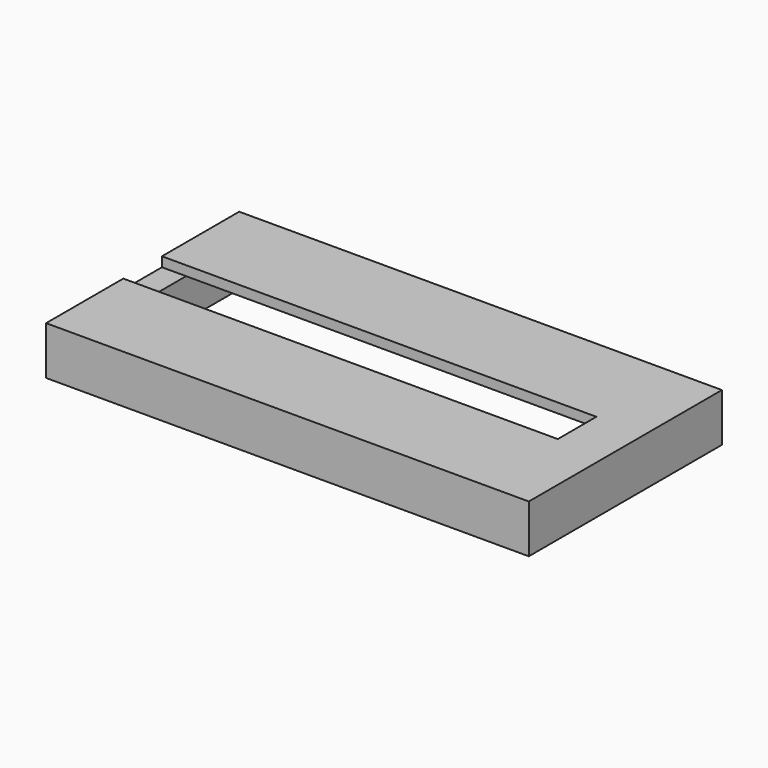
from build123d import *

# Parameters (mm, degrees)
F0_W     = 508
F0_H     = 254
F1_DEPTH = 50.8
F2_W     = 457.2
F2_H     = 203.2
F3_DEPTH = 40.64
F4_W     = 457.2
F4_H     = 50.8
F5_DEPTH = 10.16


with BuildPart() as f1:
    # F0 (on Top) → F1 (new body)
    with BuildSketch(Plane.XY):
        Rectangle(F0_W, F0_H)
    extrude(amount=-F1_DEPTH)

    # F2 (on face) → F3 (cut)
    with BuildSketch(Plane(origin=(0, 0, -50.8), x_dir=(1, 0, 0), z_dir=(0, 0, -1))):
        Rectangle(F2_W, F2_H)
    extrude(amount=-F3_DEPTH, mode=Mode.SUBTRACT)

    # F4 (on face) → F5 (cut)
    with BuildSketch(Plane.XY):
        with Locations((-25.4, 0)):
            Rectangle(F4_W, F4_H)
    extrude(amount=-F5_DEPTH, mode=Mode.SUBTRACT)


solid = f1.part
